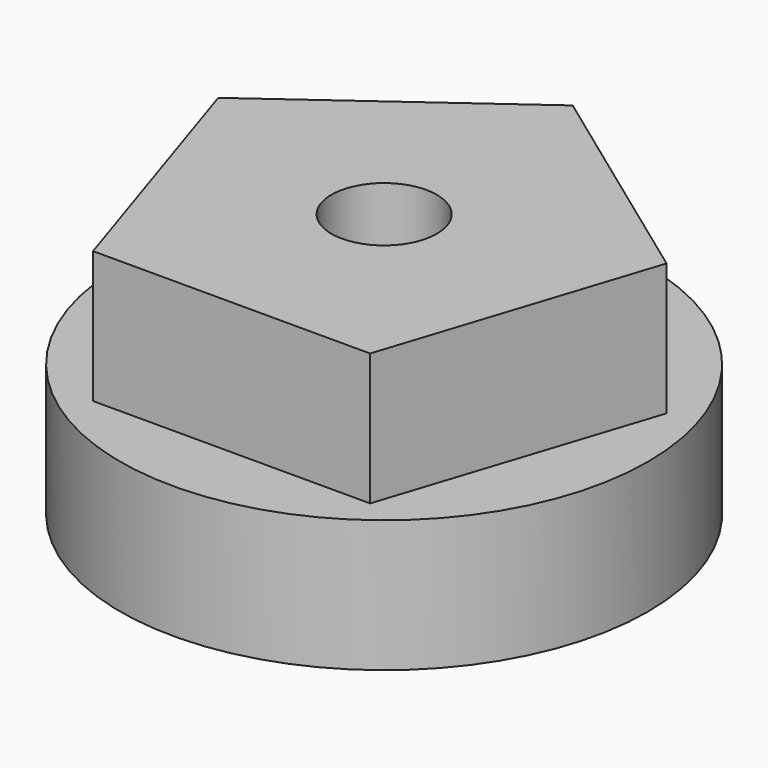
from build123d import *

# Parameters (mm, degrees)
SKETCH_R        = 10
PAD_DEPTH       = 5
PAD001_DEPTH    = 5
SKETCH002_W     = 6.429408
SKETCH002_H     = 2.113688
POCKET_DEPTH    = 5
SKETCH003_R     = 2
POCKET001_DEPTH = 10.001


with BuildPart() as part:
    # Sketch → Pad (new body)
    with BuildSketch(Plane.XY):
        Circle(SKETCH_R)
    extrude(amount=PAD_DEPTH)

    # Sketch001 (on Face3 of Pad) → Pad001 (join)
    with BuildSketch(Plane.XY.offset(5)):
        Polygon((0, 8.928971), (-8.491956, 2.759204), (-5.248317, -7.223689), (5.248317, -7.223689), (8.491956, 2.759204), align=None)
    extrude(amount=PAD001_DEPTH)

    # Sketch002 (on Face2 of Pad001) → Pocket (cut)
    with BuildSketch(Plane(origin=(0, 0, 0), x_dir=(1, 0, 0), z_dir=(0, 0, -1))):
        with Locations((0, 5.755642)):
            Rectangle(SKETCH002_W, SKETCH002_H)
    extrude(amount=-POCKET_DEPTH, mode=Mode.SUBTRACT)

    # Sketch003 (on Face2 of Pocket) → Pocket001 (cut, through all)
    with BuildSketch(Plane(origin=(0, 0, 0), x_dir=(1, 0, 0), z_dir=(0, 0, -1))):
        Circle(SKETCH003_R)
    extrude(amount=-POCKET001_DEPTH, mode=Mode.SUBTRACT)


solid = part.part
